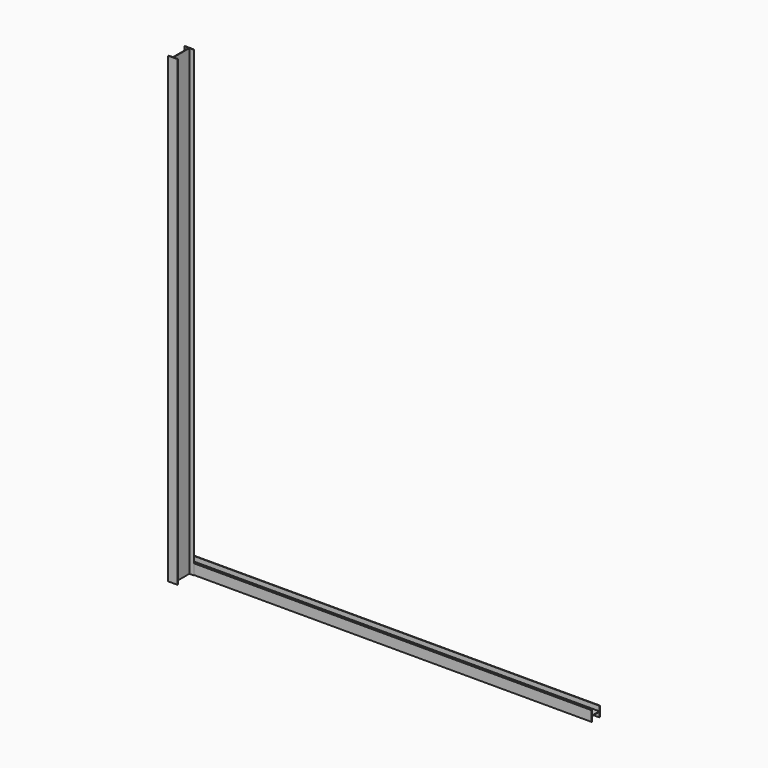
from build123d import *

# Parameters (mm, degrees)
F2_DEPTH = 9000
F3_DEPTH = 7906


with BuildPart() as f2:
    # F0 (on Top) → F2 (new body)
    with BuildSketch(Plane.XY):
        Polygon((178, 0), (0, 0), (0, -10), (84, -10), (84, -398), (0, -398), (0, -408), (178, -408), (178, -398), (94, -398), (94, -10), (178, -10), align=None)
    extrude(amount=F2_DEPTH)


with BuildPart() as f3:
    # F1 (on Right) → F3 (new body)
    with BuildSketch(Plane.YZ):
        Polygon((0, 200), (0, 0), (10, 0), (10, 95), (190, 95), (190, 0), (200, 0), (200, 200), (190, 200), (190, 105), (10, 105), (10, 200), align=None)
    extrude(amount=F3_DEPTH)


solid = Compound([f2.part, f3.part])
